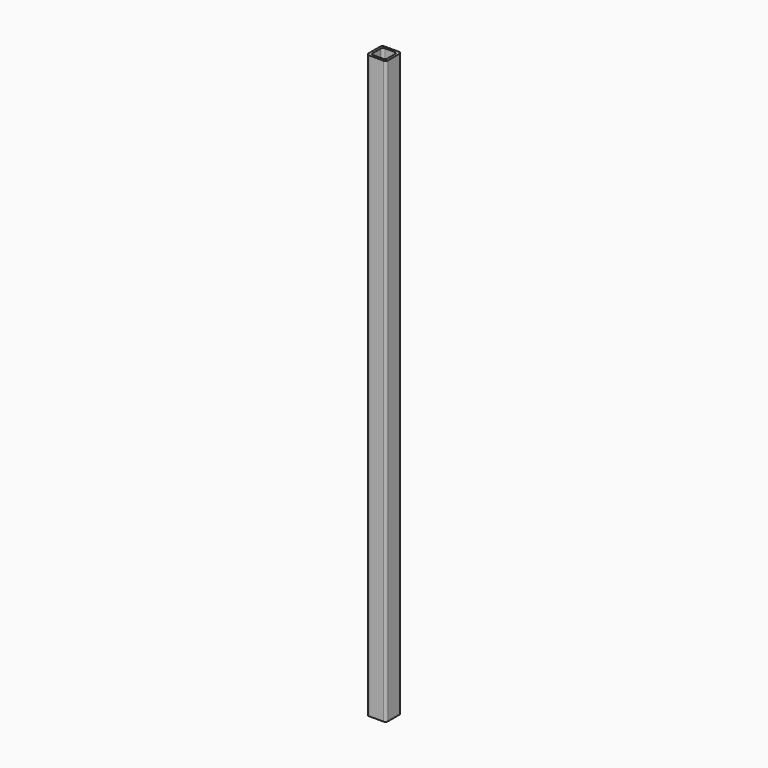
from build123d import *

# Parameters (mm, degrees)
F1_DEPTH      = 381
F1_DEPTH_BACK = 381


with BuildPart() as f1:
    # F0 (on Top) → F1 (new body, two sides)
    with BuildSketch(Plane.XY) as f1_sk:
        with BuildLine():
            ThreePointArc((12.7, 9.525), (11.770064, 11.770064), (9.525, 12.7))
            Line((9.525, 12.7), (-9.525, 12.7))
            ThreePointArc((-9.525, 12.7), (-11.770064, 11.770064), (-12.7, 9.525))
            Line((-12.7, 9.525), (-12.7, -9.525))
            ThreePointArc((-12.7, -9.525), (-11.770064, -11.770064), (-9.525, -12.7))
            Line((-9.525, -12.7), (9.525, -12.7))
            ThreePointArc((9.525, -12.7), (11.770064, -11.770064), (12.7, -9.525))
            Line((12.7, -9.525), (12.7, 9.525))
        make_face()
        with BuildLine():
            Line((-9.525, -6.35), (-9.525, 6.35))
            ThreePointArc((-9.525, 6.35), (-8.595064, 8.595064), (-6.35, 9.525))
            Line((-6.35, 9.525), (6.35, 9.525))
            ThreePointArc((6.35, 9.525), (8.595064, 8.595064), (9.525, 6.35))
            Line((9.525, 6.35), (9.525, -6.35))
            ThreePointArc((9.525, -6.35), (8.595064, -8.595064), (6.35, -9.525))
            Line((6.35, -9.525), (-6.35, -9.525))
            ThreePointArc((-6.35, -9.525), (-8.595064, -8.595064), (-9.525, -6.35))
        make_face(mode=Mode.SUBTRACT)
    extrude(amount=F1_DEPTH)
    extrude(f1_sk.sketch, amount=-F1_DEPTH_BACK)


solid = f1.part
